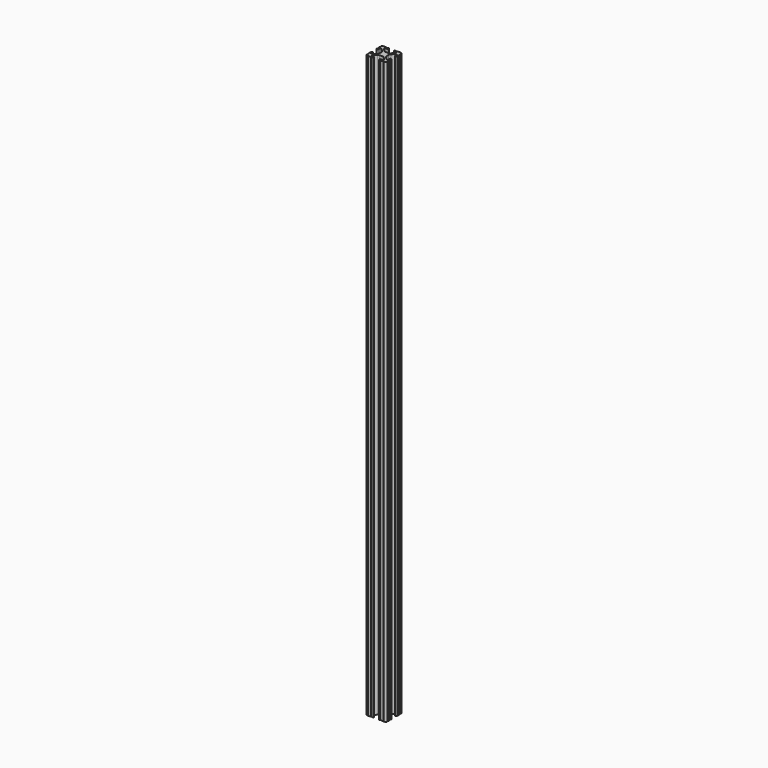
from build123d import *

# Parameters (mm, degrees)
F1_DEPTH = 724


with BuildPart() as f1:
    # F0 (on Top) → F1 (new body)
    with BuildSketch(Plane.XY):
        with BuildLine():
            ThreePointArc((-10.4902, 6.402089), (-9.856505, 7.351068), (-8.737131, 7.129409))
            Line((-8.737131, 7.129409), (-5.441006, 3.840816))
            ThreePointArc((-5.441006, 3.840816), (-4.750878, 2.809883), (-4.5085, 1.593186))
            Line((-4.5085, 1.593186), (-4.5085, -1.593186))
            ThreePointArc((-4.5085, -1.593186), (-4.750878, -2.809883), (-5.441006, -3.840816))
            Line((-5.441006, -3.840816), (-8.737131, -7.129409))
            ThreePointArc((-8.737131, -7.129409), (-9.856505, -7.351068), (-10.4902, -6.402089))
            Line((-10.4902, -6.402089), (-10.4902, -4.287469))
            ThreePointArc((-10.4902, -4.287469), (-10.797449, -3.545706), (-11.539212, -3.238457))
            Line((-11.539212, -3.238457), (-11.650988, -3.238457))
            ThreePointArc((-11.650988, -3.238457), (-12.392751, -3.545706), (-12.7, -4.287469))
            Line((-12.7, -4.287469), (-12.7, -5.317084))
            ThreePointArc((-12.7, -5.317084), (-12.192, -5.825084), (-12.7, -6.333084))
            Line((-12.7, -6.333084), (-12.7, -9.5504))
            ThreePointArc((-12.7, -9.5504), (-12.191923, -10.058323), (-12.699847, -10.5664))
            ThreePointArc((-12.699847, -10.5664), (-12.082538, -12.082507), (-10.566443, -12.699848))
            ThreePointArc((-10.566443, -12.699848), (-10.058367, -12.191924), (-9.550443, -12.7))
            Line((-9.550443, -12.7), (-6.333127, -12.7))
            ThreePointArc((-6.333127, -12.7), (-5.825127, -12.192), (-5.317127, -12.7))
            Line((-5.317127, -12.7), (-4.287512, -12.7))
            ThreePointArc((-4.287512, -12.7), (-3.545749, -12.392751), (-3.2385, -11.650988))
            Line((-3.2385, -11.650988), (-3.2385, -11.539212))
            ThreePointArc((-3.2385, -11.539212), (-3.545749, -10.797449), (-4.287512, -10.4902))
            Line((-4.287512, -10.4902), (-6.416408, -10.4902))
            ThreePointArc((-6.416408, -10.4902), (-7.414731, -9.822813), (-7.17965, -8.645193))
            Line((-7.17965, -8.645193), (-3.95227, -5.42369))
            ThreePointArc((-3.95227, -5.42369), (-2.922936, -4.736929), (-1.709254, -4.4958))
            Line((-1.709254, -4.4958), (1.709254, -4.4958))
            ThreePointArc((1.709254, -4.4958), (2.922936, -4.736929), (3.95227, -5.42369))
            Line((3.95227, -5.42369), (7.17965, -8.645193))
            ThreePointArc((7.17965, -8.645193), (7.414731, -9.822813), (6.416408, -10.4902))
            Line((6.416408, -10.4902), (4.287512, -10.4902))
            ThreePointArc((4.287512, -10.4902), (3.545749, -10.797449), (3.2385, -11.539212))
            Line((3.2385, -11.539212), (3.2385, -11.650988))
            ThreePointArc((3.2385, -11.650988), (3.545749, -12.392751), (4.287512, -12.7))
            Line((4.287512, -12.7), (5.317127, -12.7))
            ThreePointArc((5.317127, -12.7), (5.825127, -12.192), (6.333127, -12.7))
            Line((6.333127, -12.7), (9.550443, -12.7))
            ThreePointArc((9.550443, -12.7), (10.058367, -12.191924), (10.566443, -12.699848))
            ThreePointArc((10.566443, -12.699848), (12.082538, -12.082507), (12.699847, -10.5664))
            ThreePointArc((12.699847, -10.5664), (12.191923, -10.058323), (12.7, -9.5504))
            Line((12.7, -9.5504), (12.7, -6.333084))
            ThreePointArc((12.7, -6.333084), (12.192, -5.825084), (12.7, -5.317084))
            Line((12.7, -5.317084), (12.7, -4.287469))
            ThreePointArc((12.7, -4.287469), (12.392751, -3.545706), (11.650988, -3.238457))
            Line((11.650988, -3.238457), (11.539212, -3.238457))
            ThreePointArc((11.539212, -3.238457), (10.797449, -3.545706), (10.4902, -4.287469))
            Line((10.4902, -4.287469), (10.4902, -6.402089))
            ThreePointArc((10.4902, -6.402089), (9.856505, -7.351068), (8.737131, -7.129409))
            Line((8.737131, -7.129409), (5.441006, -3.840816))
            ThreePointArc((5.441006, -3.840816), (4.750878, -2.809883), (4.5085, -1.593186))
            Line((4.5085, -1.593186), (4.5085, 1.593186))
            ThreePointArc((4.5085, 1.593186), (4.750878, 2.809883), (5.441006, 3.840816))
            Line((5.441006, 3.840816), (8.737131, 7.129409))
            ThreePointArc((8.737131, 7.129409), (9.856505, 7.351068), (10.4902, 6.402089))
            Line((10.4902, 6.402089), (10.4902, 4.287469))
            ThreePointArc((10.4902, 4.287469), (10.797449, 3.545706), (11.539212, 3.238457))
            Line((11.539212, 3.238457), (11.650988, 3.238457))
            ThreePointArc((11.650988, 3.238457), (12.392751, 3.545706), (12.7, 4.287469))
            Line((12.7, 4.287469), (12.7, 5.317084))
            ThreePointArc((12.7, 5.317084), (12.192, 5.825084), (12.7, 6.333084))
            Line((12.7, 6.333084), (12.7, 9.5504))
            ThreePointArc((12.7, 9.5504), (12.191923, 10.058323), (12.699847, 10.5664))
            ThreePointArc((12.699847, 10.5664), (12.082538, 12.082507), (10.566443, 12.699848))
            ThreePointArc((10.566443, 12.699848), (10.058367, 12.191924), (9.550443, 12.7))
            Line((9.550443, 12.7), (6.333127, 12.7))
            ThreePointArc((6.333127, 12.7), (5.825127, 12.192), (5.317127, 12.7))
            Line((5.317127, 12.7), (4.287512, 12.7))
            ThreePointArc((4.287512, 12.7), (3.545749, 12.392751), (3.2385, 11.650988))
            Line((3.2385, 11.650988), (3.2385, 11.539212))
            ThreePointArc((3.2385, 11.539212), (3.545749, 10.797449), (4.287512, 10.4902))
            Line((4.287512, 10.4902), (6.476789, 10.4902))
            ThreePointArc((6.476789, 10.4902), (7.432222, 9.851404), (7.207036, 8.724371))
            Line((7.207036, 8.724371), (3.898273, 5.423169))
            ThreePointArc((3.898273, 5.423169), (2.86912, 4.736788), (1.655778, 4.4958))
            Line((1.655778, 4.4958), (-1.655778, 4.4958))
            ThreePointArc((-1.655778, 4.4958), (-2.86912, 4.736788), (-3.898273, 5.423169))
            Line((-3.898273, 5.423169), (-7.207036, 8.724371))
            ThreePointArc((-7.207036, 8.724371), (-7.432222, 9.851404), (-6.476789, 10.4902))
            Line((-6.476789, 10.4902), (-4.287512, 10.4902))
            ThreePointArc((-4.287512, 10.4902), (-3.545749, 10.797449), (-3.2385, 11.539212))
            Line((-3.2385, 11.539212), (-3.2385, 11.650988))
            ThreePointArc((-3.2385, 11.650988), (-3.545749, 12.392751), (-4.287512, 12.7))
            Line((-4.287512, 12.7), (-5.317127, 12.7))
            ThreePointArc((-5.317127, 12.7), (-5.825127, 12.192), (-6.333127, 12.7))
            Line((-6.333127, 12.7), (-9.550443, 12.7))
            ThreePointArc((-9.550443, 12.7), (-10.058367, 12.191924), (-10.566443, 12.699848))
            ThreePointArc((-10.566443, 12.699848), (-12.082538, 12.082507), (-12.699847, 10.5664))
            ThreePointArc((-12.699847, 10.5664), (-12.191923, 10.058323), (-12.7, 9.5504))
            Line((-12.7, 9.5504), (-12.7, 6.333084))
            ThreePointArc((-12.7, 6.333084), (-12.192, 5.825084), (-12.7, 5.317084))
            Line((-12.7, 5.317084), (-12.7, 4.287469))
            ThreePointArc((-12.7, 4.287469), (-12.392751, 3.545706), (-11.650988, 3.238457))
            Line((-11.650988, 3.238457), (-11.539212, 3.238457))
            ThreePointArc((-11.539212, 3.238457), (-10.797449, 3.545706), (-10.4902, 4.287469))
            Line((-10.4902, 4.287469), (-10.4902, 6.402089))
        make_face()
    extrude(amount=F1_DEPTH)


solid = f1.part
